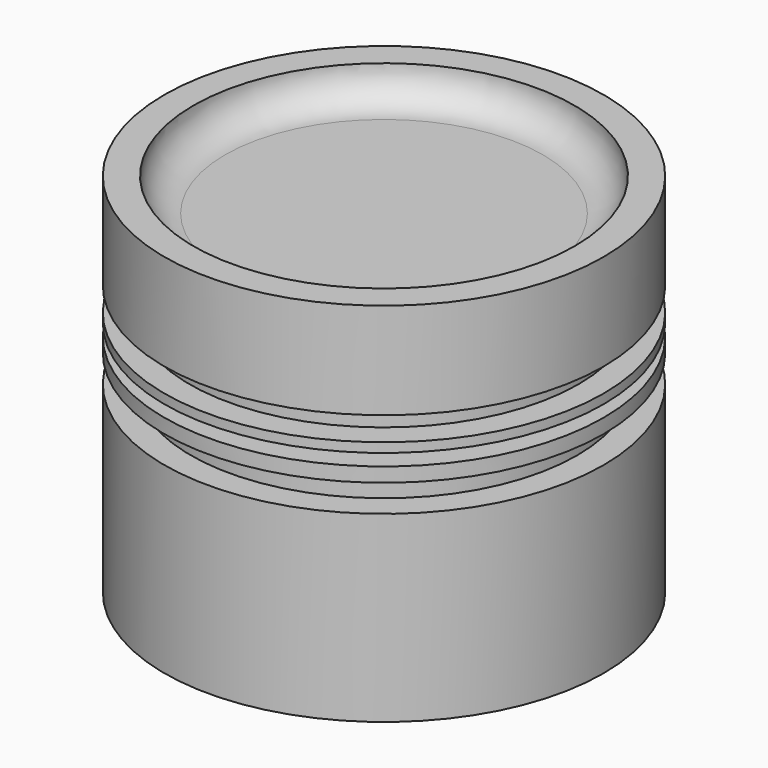
from build123d import *

# Parameters (mm, degrees)
F2_R     = 7.188692
F3_DEPTH = 127
F4_R     = 7.484689
F5_DEPTH = 25.4


with BuildPart() as f1:
    # F0 (on Front) → F1 (revolve)
    with BuildSketch(Plane.XZ):
        with BuildLine():
            Line((-27.215535, 0), (-17.227892, 0))
            Line((-17.227892, 0), (-17.227892, 34.93984))
            Line((-17.227892, 34.93984), (0, 34.93984))
            Line((0, 34.93984), (0, 41.325383))
            Line((0, 41.325383), (-19.68387, 41.325383))
            ThreePointArc((-19.68387, 41.325383), (-22.520971, 42.534607), (-23.613434, 45.418683))
            Line((-23.613434, 45.418683), (-27.215535, 45.418683))
            Line((-27.215535, 45.418683), (-27.215535, 33.466253))
            Line((-27.215535, 33.466253), (-24.104631, 33.466253))
            Line((-24.104631, 33.466253), (-24.104631, 30.519081))
            Line((-24.104631, 30.519081), (-27.215535, 30.519081))
            Line((-27.215535, 30.519081), (-27.215535, 29.350575))
            Line((-27.215535, 29.350575), (-23.940898, 29.350575))
            Line((-23.940898, 29.350575), (-23.940898, 27.878314))
            Line((-23.940898, 27.878314), (-27.215535, 27.878314))
            Line((-27.215535, 27.878314), (-27.215535, 26.098322))
            Line((-27.215535, 26.098322), (-23.940898, 26.098322))
            Line((-23.940898, 26.098322), (-23.940898, 22.709342))
            Line((-23.940898, 22.709342), (-27.215535, 22.709342))
            Line((-27.215535, 22.709342), (-27.215535, 0))
        make_face()
    revolve(axis=Axis((0, 0, 38.132612), (0, 0, -1)))

    # F2 (on Right) → F3 (cut)
    with BuildSketch(Plane.YZ):
        with Locations((0, 12.0396)):
            Circle(F2_R)
    extrude(amount=-F3_DEPTH, mode=Mode.SUBTRACT)

    # F4 (on Right) → F5 (cut)
    with BuildSketch(Plane.YZ):
        with Locations((0, 12.3444)):
            Circle(F4_R)
    extrude(amount=-F5_DEPTH, mode=Mode.SUBTRACT)


solid = f1.part
